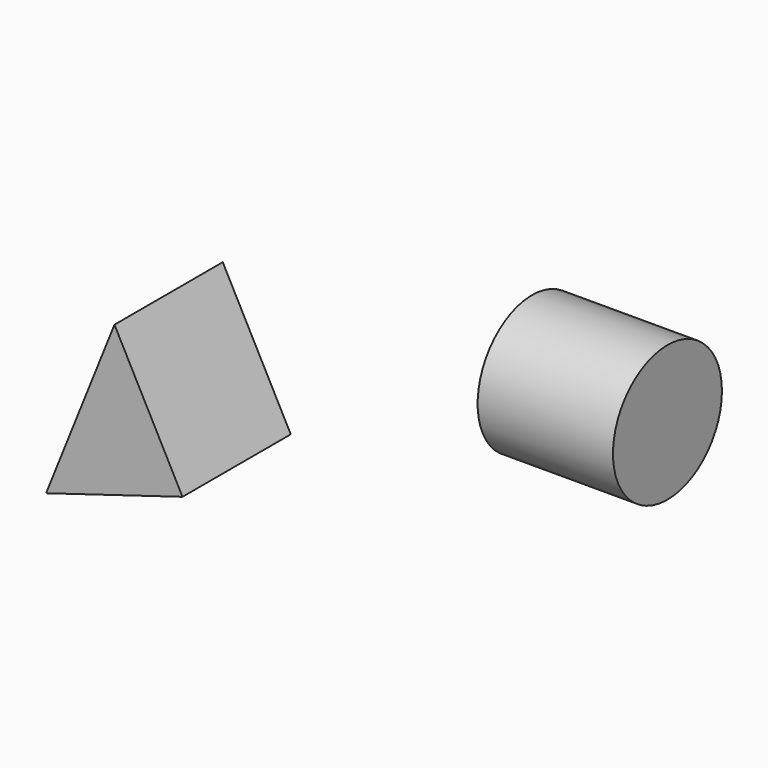
from build123d import *

# Parameters (mm, degrees)
F1_DEPTH = 127
F2_R     = 63.88728
F3_DEPTH = 127


with BuildPart() as f1:
    # F0 (on Front) → F1 (new body)
    with BuildSketch(Plane.XZ):
        Polygon((-156.523347, 8.631107), (-220.694497, -151.477531), (-92.69169, -112.82865), align=None)
    extrude(amount=F1_DEPTH)


with BuildPart() as f3:
    # F2 (on Right) → F3 (new body)
    with BuildSketch(Plane.YZ):
        with Locations((167.185634, -99.450827)):
            Circle(F2_R)
    extrude(amount=F3_DEPTH)


solid = Compound([f1.part, f3.part])
